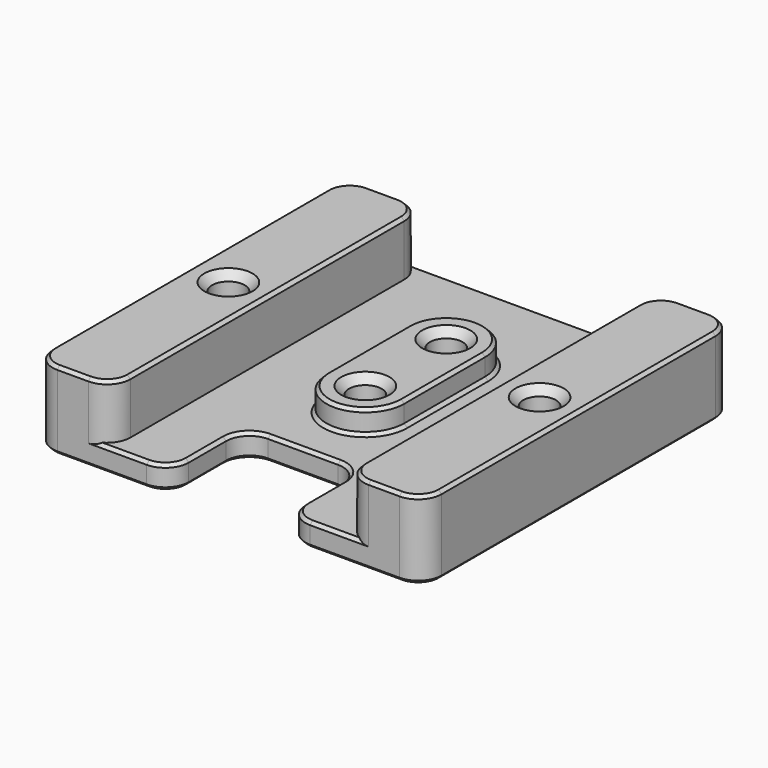
from build123d import *

# Parameters (mm, degrees)
SKETCH219_W          = 50
SKETCH219_H          = 50
PAD112_DEPTH         = 10
SKETCH220_W          = 30
SKETCH220_H          = 7
POCKET073_DEPTH      = 25.001
POCKET073_DEPTH_BACK = 25.001
SKETCH221_R          = 2.1
POCKET074_DEPTH      = 10.001
PAD113_DEPTH         = 3
SKETCH223_R          = 2.1
POCKET051_DEPTH      = 7
SKETCH224_W          = 15
SKETCH224_H          = 12
POCKET052_DEPTH      = 3.001
FILLET070_R          = 3
CHAMFER076_SIZE      = 1
FILLET071_R          = 3
CHAMFER077_SIZE      = 0.4
CHAMFER078_SIZE      = 0.4


with BuildPart() as part:
    # Sketch219 → Pad112 (new body)
    with BuildSketch(Plane.XY):
        Rectangle(SKETCH219_W, SKETCH219_H)
    extrude(amount=-PAD112_DEPTH)

    # Sketch220 → Pocket073 (cut, two sides)
    with BuildSketch(Plane.XZ) as pocket073_sk:
        with Locations((0, -3.5)):
            Rectangle(SKETCH220_W, SKETCH220_H)
    extrude(amount=-POCKET073_DEPTH, mode=Mode.SUBTRACT)
    extrude(pocket073_sk.sketch, amount=POCKET073_DEPTH_BACK, mode=Mode.SUBTRACT)

    # Sketch221 → Pocket074 (cut, through all)
    with BuildSketch(Plane.XY):
        with Locations((-20, 0)):
            Circle(SKETCH221_R)
        with Locations((20, 0)):
            Circle(SKETCH221_R)
    extrude(amount=-POCKET074_DEPTH, mode=Mode.SUBTRACT)

    # Sketch222 (on Face8 of Pocket074) → Pad113 (join)
    with BuildSketch(Plane.XY.offset(-7)):
        with BuildLine():
            ThreePointArc((5, 10), (0, 15), (-5, 10))
            Line((-5, 10), (-5, -3))
            ThreePointArc((-5, -3), (0, -8), (5, -3))
            Line((5, -3), (5, 10))
        make_face()
    extrude(amount=PAD113_DEPTH)

    # Sketch223 (on Face17 of Pad113) → Pocket051 (cut)
    with BuildSketch(Plane.XY.offset(-4)):
        with Locations((0, 10)):
            Circle(SKETCH223_R)
        with Locations((0, -3)):
            Circle(SKETCH223_R)
    extrude(amount=-POCKET051_DEPTH, mode=Mode.SUBTRACT)

    # Sketch224 (on Face8 of Pocket051) → Pocket052 (cut, through all)
    with BuildSketch(Plane.XY.offset(-7)):
        with Locations((0, -19)):
            Rectangle(SKETCH224_W, SKETCH224_H)
    extrude(amount=-POCKET052_DEPTH, mode=Mode.SUBTRACT)

    # Fillet070
    fillet070_edges = [part.edges().sort_by_distance(p)[0] for p in [
        (-7.5, -25, -8.5),
        (7.5, -25, -8.5),
        (-7.5, -13, -8.5),
        (7.5, -13, -8.5),
    ]]
    fillet(fillet070_edges, radius=FILLET070_R)

    # Chamfer076
    chamfer076_edges = [part.edges().sort_by_distance(p)[0] for p in [
        (-22.1, 0, 0),
        (-22.1, 0, -10),
        (-2.1, -3, -4),
        (-2.1, -3, -10),
        (-2.1, 10, -4),
        (-2.1, 10, -10),
        (17.9, 0, 0),
        (17.9, 0, -10),
    ]]
    chamfer(chamfer076_edges, length=CHAMFER076_SIZE)

    # Fillet071
    fillet071_edges = [part.edges().sort_by_distance(p)[0] for p in [
        (-25, -25, -5),
        (-25, 25, -5),
        (25, 25, -5),
        (25, -25, -5),
        (-15, -25, -3.5),
        (-15, 25, -3.5),
        (15, 25, -3.5),
        (15, -25, -3.5),
    ]]
    fillet(fillet071_edges, radius=FILLET071_R)

    # Chamfer077
    chamfer077_edges = [part.edges().sort_by_distance(p)[0] for p in [
        (8.37868, -24.12132, -10),
    ]]
    chamfer(chamfer077_edges, length=CHAMFER077_SIZE)

    # Chamfer078
    chamfer078_edges = [part.edges().sort_by_distance(p)[0] for p in [
        (-20, -25, 0),
        (20, -25, 0),
        (0, -8, -4),
        (0, -8, -7),
        (-12.75, -25, -7),
        (0, 25, -7),
    ]]
    chamfer(chamfer078_edges, length=CHAMFER078_SIZE)


solid = part.part
